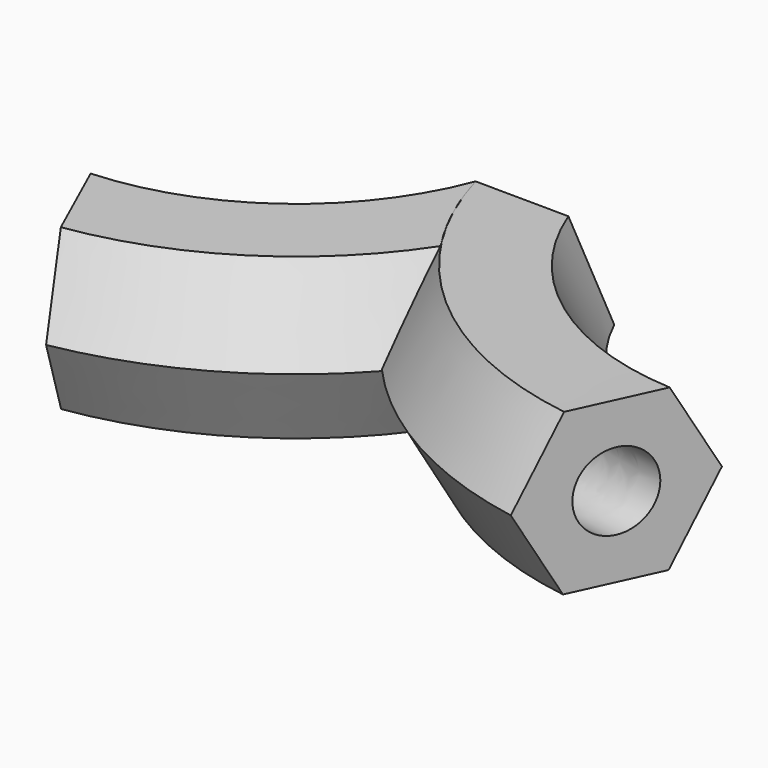
from build123d import *

# Parameters (mm, degrees)
F0_R = 12.7


with BuildPart() as f2:
    # F2: sweep along a path in F1
    with BuildLine(Plane.XY) as f2_path:
        ThreePointArc((88.857807, -72.113179), (33.770109, -49.190349), (0, 0))
    # F0 (on Front) → F2 (sweep)
    with BuildSketch(Plane.XZ):
        Polygon((-30.479473, 27.065896), (-15.394954, 0.580283), (15.084519, 0.401054), (30.479473, 26.707437), (15.394954, 53.19305), (-15.084519, 53.372279), align=None)
        with Locations((0, 26.886667)):
            Circle(F0_R, mode=Mode.SUBTRACT)
        with Locations((0, 26.886667)):
            Circle(F0_R)
    sweep(path=f2_path.line)

    # F3: sweep along a path in F1
    with BuildLine(Plane.XY) as f3_path:
        ThreePointArc((-88.857807, -72.113179), (-33.770109, -49.190349), (0, 0))
    # F0 (on Front) → F3 (sweep)
    with BuildSketch(Plane.XZ):
        Polygon((-30.479473, 27.065896), (-15.394954, 0.580283), (15.084519, 0.401054), (30.479473, 26.707437), (15.394954, 53.19305), (-15.084519, 53.372279), align=None)
        with Locations((0, 26.886667)):
            Circle(F0_R, mode=Mode.SUBTRACT)
        with Locations((0, 26.886667)):
            Circle(F0_R)
    sweep(path=f3_path.line)

    # F4: sweep along a path in F1
    with BuildLine(Plane.XY) as f4_path:
        ThreePointArc((88.857807, -72.113179), (33.770109, -49.190349), (0, 0))
    # F0 (on Front) → F4 (sweep, cut)
    with BuildSketch(Plane.XZ):
        with Locations((0, 26.886667)):
            Circle(F0_R)
    sweep(path=f4_path.line, mode=Mode.SUBTRACT)


solid = f2.part
